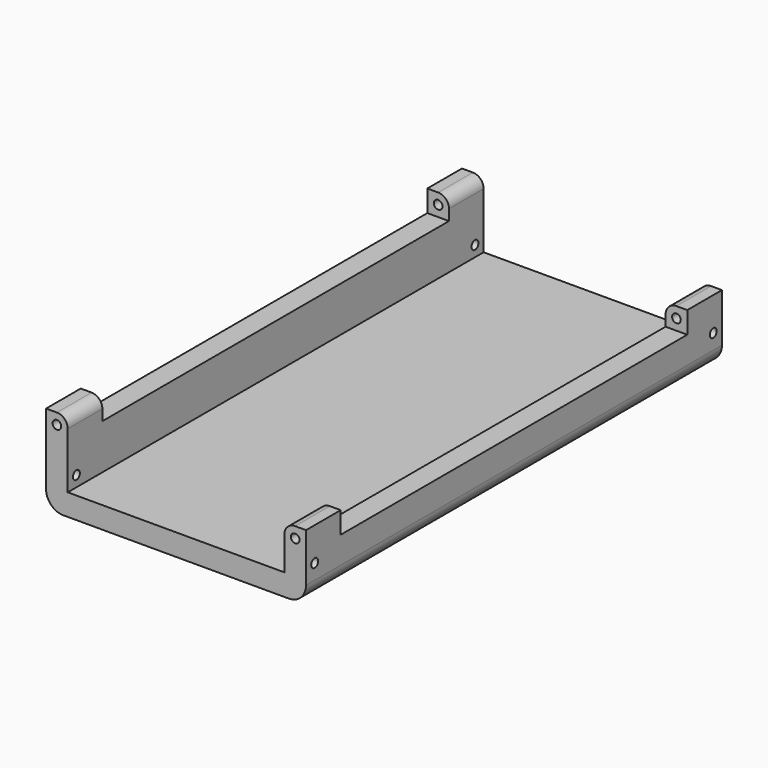
from build123d import *

# Parameters (mm, degrees)
F1_DEPTH  = 152.4
F2_R      = 5.08
F4_R      = 1.27
F5_DEPTH  = 76.201
F6_W      = 12.7
F6_H      = 6.35
F7_DEPTH  = 6.35
F8_W      = 12.7
F8_H      = 6.35
F9_DEPTH  = 6.35
F10_R     = 1.27
F11_DEPTH = 152.401
F12_R     = 3.175


with BuildPart() as f1:
    # F0 (on Front) → F1 (new body)
    with BuildSketch(Plane.XZ):
        Polygon((0, 0), (0, -19.558), (76.2, -19.558), (76.2, -6.604), (69.85, -6.604), (69.85, -13.208), (6.35, -13.208), (6.35, 0), align=None)
    extrude(amount=-F1_DEPTH)

    # F2
    f2_edges = [f1.edges().sort_by_distance(p)[0] for p in [
        (0, 76.2, -19.558),
        (76.2, 76.2, -19.558),
    ]]
    fillet(f2_edges, radius=F2_R)

    # F4 (on face) → F5 (cut, through all)
    with BuildSketch(Plane(origin=(0, 0, 0), x_dir=(0, -1, 0), z_dir=(-1, 0, 0))):
        with Locations((-149.225, -10.033)):
            Circle(F4_R)
        with Locations((-3.175, -10.033)):
            Circle(F4_R)
    extrude(amount=-F5_DEPTH, mode=Mode.SUBTRACT)

    # F6 (on face) → F7 (join)
    with BuildSketch(Plane.YZ.offset(76.2)):
        with Locations((6.35, -3.429)):
            Rectangle(F6_W, F6_H)
        with Locations((146.05, -3.429)):
            Rectangle(F6_W, F6_H)
    extrude(amount=-F7_DEPTH)

    # F8 (on face) → F9 (join)
    with BuildSketch(Plane(origin=(0, 0, 0), x_dir=(0, -1, 0), z_dir=(-1, 0, 0))):
        with Locations((-146.05, 3.175)):
            Rectangle(F8_W, F8_H)
        with Locations((-6.35, 3.175)):
            Rectangle(F8_W, F8_H)
    extrude(amount=-F9_DEPTH)

    # F10 (on face) → F11 (cut, through all)
    with BuildSketch(Plane.XZ):
        with Locations((73.025, -3.429)):
            Circle(F10_R)
        with Locations((3.175, 3.175)):
            Circle(F10_R)
    extrude(amount=-F11_DEPTH, mode=Mode.SUBTRACT)

    # F12
    f12_edges = [f1.edges().sort_by_distance(p)[0] for p in [
        (69.85, 6.35, -0.254),
        (69.85, 146.05, -0.254),
        (6.35, 6.35, 6.35),
        (6.35, 146.05, 6.35),
    ]]
    fillet(f12_edges, radius=F12_R)


solid = f1.part
